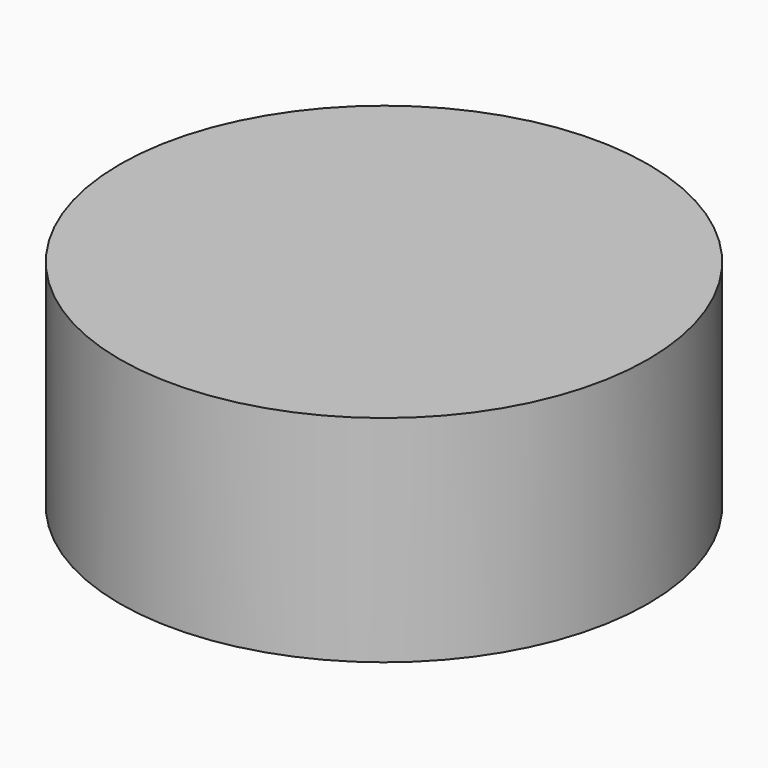
from build123d import *

# Parameters (mm, degrees)
CYLINDER_R     = 18.42135
CYLINDER_DEPTH = 15


with BuildPart() as part:
    # Cylinder → Cylinder (new body)
    with BuildSketch(Plane.XY.offset(-2.5)):
        Circle(CYLINDER_R)
    extrude(amount=CYLINDER_DEPTH)


solid = part.part
